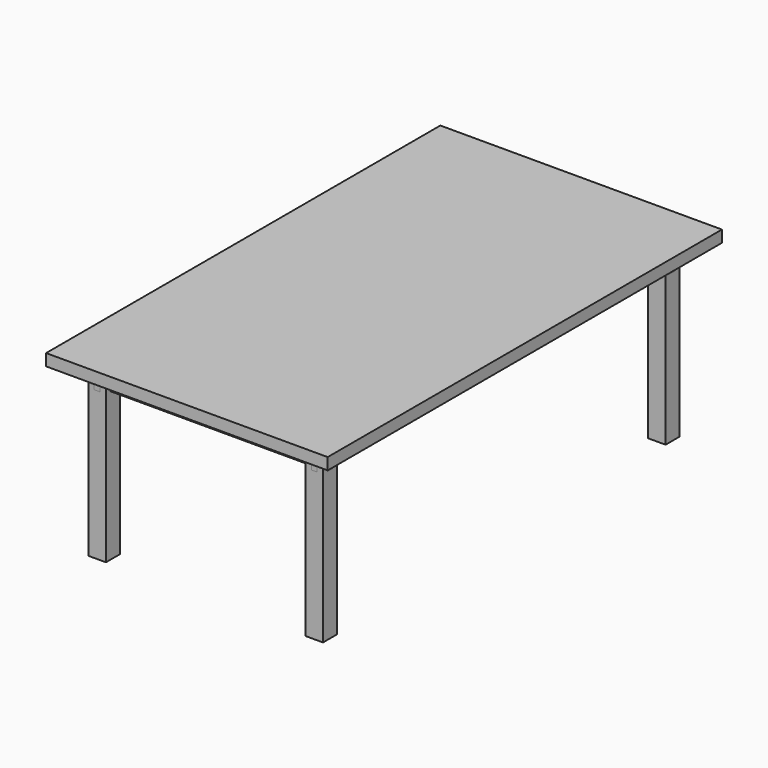
from build123d import *

# Parameters (mm, degrees)
F0_W     = 1219.2
F0_H     = 2133.6
F1_DEPTH = 50.8
F2_W     = 76.2
F2_H     = 76.2
F3_DEPTH = 730.25
F4_W     = 25.4
F4_H     = 25.4
F4_H_2   = 1828.8
F4_W_2   = 914.4
F5_DEPTH = 88.9


with BuildPart() as f1:
    # F0 (on Top) → F1 (new body)
    with BuildSketch(Plane.XY):
        Rectangle(F0_W, F0_H)
    extrude(amount=F1_DEPTH)


with BuildPart() as f3:
    # F2 (on face) → F3 (new body)
    with BuildSketch(Plane(origin=(0, 0, 0), x_dir=(1, 0, 0), z_dir=(0, 0, -1))):
        with Locations((-469.9, -927.1)):
            Rectangle(F2_W, F2_H)
    extrude(amount=F3_DEPTH)


with BuildPart() as f3b:
    # F2 (on face) → F3, piece 2 (new body)
    with BuildSketch(Plane(origin=(0, 0, 0), x_dir=(1, 0, 0), z_dir=(0, 0, -1))):
        with Locations((469.9, -927.1)):
            Rectangle(F2_W, F2_H)
    extrude(amount=F3_DEPTH)


with BuildPart() as f3c:
    # F2 (on face) → F3, piece 3 (new body)
    with BuildSketch(Plane(origin=(0, 0, 0), x_dir=(1, 0, 0), z_dir=(0, 0, -1))):
        with Locations((-469.9, 927.1)):
            Rectangle(F2_W, F2_H)
    extrude(amount=F3_DEPTH)


with BuildPart() as f3d:
    # F2 (on face) → F3, piece 4 (new body)
    with BuildSketch(Plane(origin=(0, 0, 0), x_dir=(1, 0, 0), z_dir=(0, 0, -1))):
        with Locations((469.9, 927.1)):
            Rectangle(F2_W, F2_H)
    extrude(amount=F3_DEPTH)


with BuildPart() as f5:
    # F4 (on face) → F5 (new body)
    with BuildSketch(Plane(origin=(0, 0, 0), x_dir=(1, 0, 0), z_dir=(0, 0, -1))):
        with Locations((-495.3, -927.1)):
            Rectangle(F4_W, F4_H)
        with Locations((-469.9, 0)):
            Rectangle(F4_W, F4_H_2)
        with Locations((-469.9, -927.1)):
            Rectangle(F4_W, F4_H)
        with Locations((0, -927.1)):
            Rectangle(F4_W_2, F4_H)
        with Locations((-495.3, 927.1)):
            Rectangle(F4_W, F4_H)
        with Locations((-469.9, 927.1)):
            Rectangle(F4_W, F4_H)
        with Locations((-469.9, -952.5)):
            Rectangle(F4_W, F4_H)
        with Locations((469.9, 0)):
            Rectangle(F4_W, F4_H_2)
        with Locations((469.9, -927.1)):
            Rectangle(F4_W, F4_H)
        with Locations((0, 927.1)):
            Rectangle(F4_W_2, F4_H)
        with Locations((-469.9, 952.5)):
            Rectangle(F4_W, F4_H)
        with Locations((495.3, -927.1)):
            Rectangle(F4_W, F4_H)
        with Locations((469.9, 927.1)):
            Rectangle(F4_W, F4_H)
        with Locations((469.9, -952.5)):
            Rectangle(F4_W, F4_H)
        with Locations((495.3, 927.1)):
            Rectangle(F4_W, F4_H)
        with Locations((469.9, 952.5)):
            Rectangle(F4_W, F4_H)
    extrude(amount=F5_DEPTH)


solid = Compound([f1.part, f3.part, f3b.part, f3c.part, f3d.part, f5.part])
